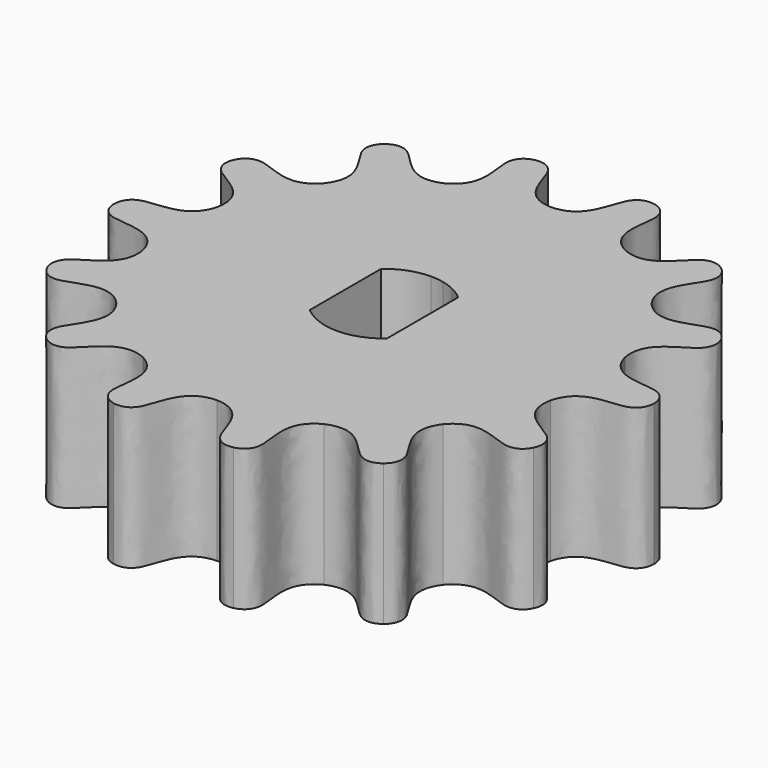
from build123d import *

# Parameters (mm, degrees)
F3_DEPTH = 6.6
F4_COUNT = 14
F5_DEPTH = 6.6010001


with BuildPart() as f3:
    # F2 (on Top) → F3 (new body)
    with BuildSketch(Plane.XY):
        with BuildLine():
            Line((2.1695791061, 9.5055471438), (2.8037637678, 12.2840916935))
            add(Edge.make_bspline(
                [(0, 9.75), (1.5056796838, 9.8064998165), (1.4894399693, 12.1411121489), (2.4739350039, 12.3593729565), (2.8037637678, 12.2840916935)],
                knots=[0, 0, 0, 0, 0.3143686588, 0.5, 0.5, 0.5, 0.5], degree=3))
            ThreePointArc((0, 9.75), (1.091653642, 9.6886940465), (2.1695791061, 9.5055471438))
        make_face()
        with BuildLine():
            add(Edge.make_bspline(
                [(2.8037637678, 12.2840916935), (3.1335925318, 12.2088104305), (3.9258920932, 11.5850078509), (2.8983102879, 9.4886409688), (4.2303664564, 8.784446462)],
                knots=[0.5, 0.5, 0.5, 0.5, 0.6856313412, 1, 1, 1, 1], degree=3))
            Line((2.8037637678, 12.2840916935), (2.1695791061, 9.5055471438))
            ThreePointArc((2.1695791061, 9.5055471438), (3.2202208541, 9.2028624705), (4.2303664564, 8.784446462))
        make_face()
        with BuildLine():
            ThreePointArc((2.1695791061, 9.5055471438), (1.091653642, 9.6886940465), (0, 9.75))
            Line((0, 9.75), (0, 2.75))
            ThreePointArc((0, 2.75), (0.3079023093, 2.7327085772), (0.6119325684, 2.6810517585))
            Line((0.6119325684, 2.6810517585), (2.1695791061, 9.5055471438))
        make_face()
        with BuildLine():
            Line((1.1931802826, 2.4776643867), (4.2303664564, 8.784446462))
            ThreePointArc((4.2303664564, 8.784446462), (3.2202208541, 9.2028624705), (2.1695791061, 9.5055471438))
            Line((2.1695791061, 9.5055471438), (0.6119325684, 2.6810517585))
            ThreePointArc((0.6119325684, 2.6810517585), (0.9082674204, 2.5956791583), (1.1931802826, 2.4776643867))
        make_face()
        with BuildLine():
            ThreePointArc((0.6119325684, 2.6810517585), (0.3079023093, 2.7327085772), (0, 2.75))
            Line((0, 2.75), (0, 2.0790622886))
            Line((0, 2.0790622886), (0.4745324002, 2.0790622886))
            Line((0.4745324002, 2.0790622886), (0.6119325684, 2.6810517585))
        make_face()
        with BuildLine():
            Line((1.0012236291, 2.0790622886), (1.1931802826, 2.4776643867))
            ThreePointArc((1.1931802826, 2.4776643867), (0.9082674204, 2.5956791583), (0.6119325684, 2.6810517585))
            Line((0.6119325684, 2.6810517585), (0.4745324002, 2.0790622886))
            Line((0.4745324002, 2.0790622886), (1.0012236291, 2.0790622886))
        make_face()
        Polygon((0.4745324002, 2.0790622886), (0, 2.0790622886), (0, 0), align=None)
        Polygon((0, 0), (1.0012236291, 2.0790622886), (0.4745324002, 2.0790622886), align=None)
    extrude(amount=F3_DEPTH)

    # F4: F3 ×14 about axis
    f4_axis = Axis((0, 0, 3.3), (0, 0, -1))


with BuildPart() as f3_1:
    add(f3.part)
    for i in range(1, F4_COUNT):
        add(f3.part.rotate(f4_axis, i * 360 / F4_COUNT))

    # F2 (on Top) → F5 (cut, through all)
    with BuildSketch(Plane.XY):
        Polygon((1.8, -2.0790622886), (1.8, 2.0790622886), (1.0012236291, 2.0790622886), (0, 0), (0, 2.0790622886), (-1.8, 2.0790622886), (-1.8, -2.0790622886), align=None)
        with BuildLine():
            ThreePointArc((-1.8, -2.0790622886), (0, -2.75), (1.8, -2.0790622886))
            Line((1.8, -2.0790622886), (-1.8, -2.0790622886))
        make_face()
        with BuildLine():
            Line((0, 2.0790622886), (0, 2.75))
            ThreePointArc((0, 2.75), (-0.9604891218, 2.5768121093), (-1.8, 2.0790622886))
            Line((-1.8, 2.0790622886), (0, 2.0790622886))
        make_face()
        with BuildLine():
            ThreePointArc((0.6119325684, 2.6810517585), (0.3079023093, 2.7327085772), (0, 2.75))
            Line((0, 2.75), (0, 2.0790622886))
            Line((0, 2.0790622886), (0.4745324002, 2.0790622886))
            Line((0.4745324002, 2.0790622886), (0.6119325684, 2.6810517585))
        make_face()
        with BuildLine():
            Line((1.0012236291, 2.0790622886), (1.1931802826, 2.4776643867))
            ThreePointArc((1.1931802826, 2.4776643867), (0.9082674204, 2.5956791583), (0.6119325684, 2.6810517585))
            Line((0.6119325684, 2.6810517585), (0.4745324002, 2.0790622886))
            Line((0.4745324002, 2.0790622886), (1.0012236291, 2.0790622886))
        make_face()
        with BuildLine():
            ThreePointArc((1.8, 2.0790622886), (1.5098022914, 2.2984771134), (1.1931802826, 2.4776643867))
            Line((1.1931802826, 2.4776643867), (1.0012236291, 2.0790622886))
            Line((1.0012236291, 2.0790622886), (1.8, 2.0790622886))
        make_face()
        Polygon((0, 0), (1.0012236291, 2.0790622886), (0.4745324002, 2.0790622886), align=None)
        Polygon((0.4745324002, 2.0790622886), (0, 2.0790622886), (0, 0), align=None)
    extrude(amount=F5_DEPTH, mode=Mode.SUBTRACT)


solid = f3_1.part
